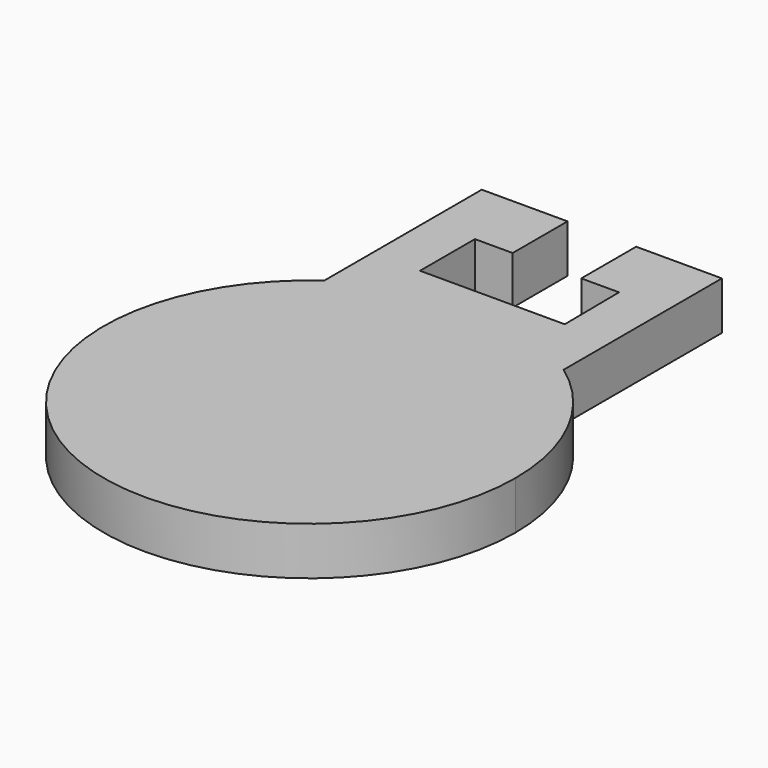
from build123d import *

# Parameters (mm, degrees)
F1_DEPTH = 14


with BuildPart() as f1:
    # F0 (on Top) → F1 (new body)
    with BuildSketch(Plane.XY):
        with BuildLine():
            ThreePointArc((-34.988813, -21.615689), (-27.678381, -123.820203), (59.814995, -70.489966))
            ThreePointArc((59.814995, -70.489966), (53.255483, -43.211508), (35.011187, -21.897496))
            Line((35.011187, -21.897496), (-34.988813, -21.897496))
            Line((-34.988813, -21.897496), (-34.988813, -21.615689))
        make_face()
        Polygon((21.213396, -4.248083), (35.011187, -4.248083), (35.011187, 35.751917), (10.011187, 35.751917), (10.011187, 15.751917), (21.011187, 15.751917), align=None)
        Polygon((-34.988813, 35.751917), (-34.988813, -4.248083), (-20.988813, -4.248083), (-20.988813, 15.751917), (-9.988813, 15.751917), (-9.988813, 35.751917), align=None)
        with BuildLine():
            Line((-34.988813, -21.897496), (35.011187, -21.897496))
            ThreePointArc((35.011187, -21.897496), (0.056542, -10.490452), (-34.988813, -21.615689))
            Line((-34.988813, -21.615689), (-34.988813, -21.897496))
        make_face()
        with BuildLine():
            ThreePointArc((-34.988813, -21.615689), (0.056542, -10.490452), (35.011187, -21.897496))
            Line((35.011187, -21.897496), (35.011187, -4.248083))
            Line((35.011187, -4.248083), (21.213396, -4.248083))
            Line((21.213396, -4.248083), (-20.988813, -4.248083))
            Line((-20.988813, -4.248083), (-34.988813, -4.248083))
            Line((-34.988813, -4.248083), (-34.988813, -21.615689))
        make_face()
    extrude(amount=F1_DEPTH)


solid = f1.part
